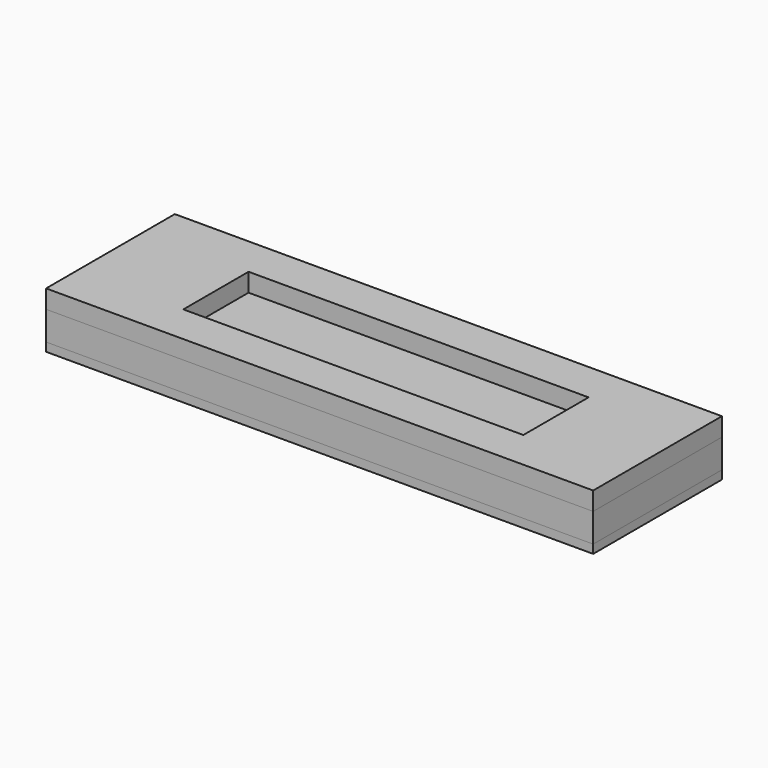
from build123d import *

# Parameters (mm, degrees)
F0_W     = 468.0004864931
F0_H     = 137.6467421651
F1_DEPTH = 7.366
F3_W     = 467.8527712822
F3_H     = 18.726343289
F4_DEPTH = 5.08
F5_W     = 468.0004864931
F5_H     = 137.6467421651
F6_DEPTH = 24.638
F7_W     = 468.0004864931
F7_H     = 137.6467421651
F7_W_2   = 290.8559888601
F7_H_2   = 69.7257481515
F8_DEPTH = 15.748


with BuildPart() as f1:
    # F0 (on Top) → F1 (new body)
    with BuildSketch(Plane.XY):
        with Locations((31.531855464, 0.7967613637)):
            Rectangle(F0_W, F0_H)
    extrude(amount=F1_DEPTH)


with BuildPart() as f4:
    # F3 (on offset) → F4 (new body)
    with BuildSketch(Plane.XY.offset(20.066)):
        with Locations((31.4855575562, 1.195197925)):
            Rectangle(F3_W, F3_H)
    extrude(amount=F4_DEPTH)


with BuildPart() as f6:
    # F5 (on face) → F6 (new body)
    with BuildSketch(Plane.XY.offset(7.366)):
        with Locations((31.531855464, 0.7967613637)):
            Rectangle(F5_W, F5_H)
    extrude(amount=F6_DEPTH)


with BuildPart() as f8:
    # F7 (on face) → F8 (new body)
    with BuildSketch(Plane.XY.offset(32.004)):
        with Locations((31.531855464, 0.7967613637)):
            Rectangle(F7_W, F7_H)
        with Locations((33.5240289569, 0.3983322531)):
            Rectangle(F7_W_2, F7_H_2, mode=Mode.SUBTRACT)
    extrude(amount=F8_DEPTH)


solid = Compound([f1.part, f4.part, f6.part, f8.part])
